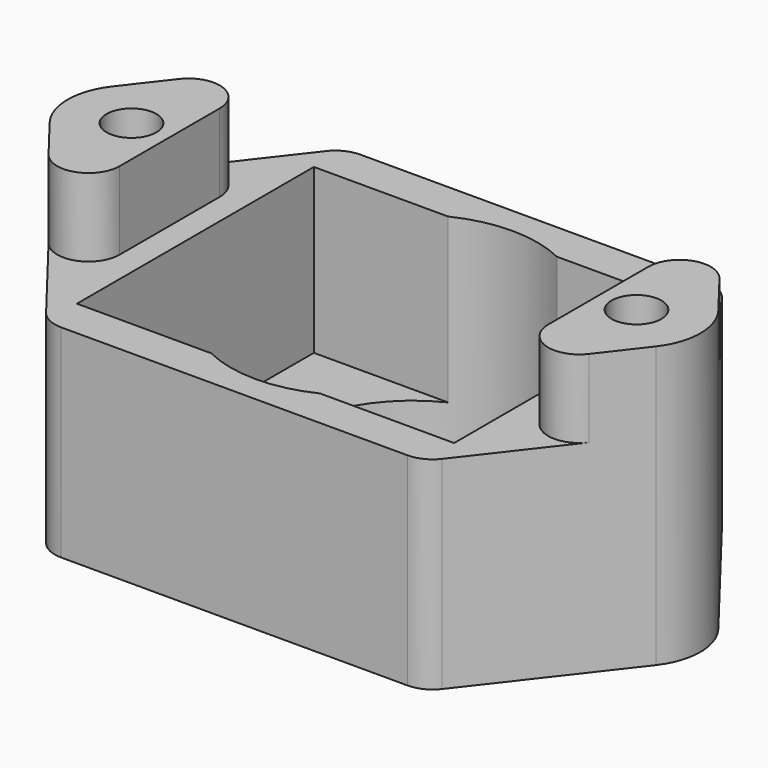
from build123d import *

# Parameters (mm, degrees)
SKETCH_R        = 1.6
PAD_DEPTH       = 2.5
SKETCH001_R     = 1.6
SKETCH001_W     = 24.2
SKETCH001_H     = 19
PAD001_DEPTH    = 15.5
SKETCH002_W     = 27.5
SKETCH002_H     = 25
POCKET_DEPTH    = 5
POCKET001_DEPTH = 18.001
FILLET_R        = 2


with BuildPart() as part:
    # Sketch → Pad (new body)
    with BuildSketch(Plane.XY):
        with BuildLine():
            Line((-12.1, 12), (12.1, 12))
            Line((12.1, 12), (19.442827, 2.508799))
            ThreePointArc((19.442837, -2.508786), (20.3, 8e-06), (19.442827, 2.508799))
            Line((19.442837, -2.508786), (12.1, -12))
            Line((12.1, -12), (-12.1, -12))
            Line((-12.1, -12), (-19.442827, -2.508799))
            ThreePointArc((-19.442827, 2.508799), (-20.3, 0), (-19.442827, -2.508799))
            Line((-12.1, 12), (-19.442827, 2.508799))
        make_face()
        with Locations((-16.2, 0)):
            Circle(SKETCH_R, mode=Mode.SUBTRACT)
        with Locations((16.2, 0)):
            Circle(SKETCH_R, mode=Mode.SUBTRACT)
    extrude(amount=PAD_DEPTH)

    # Sketch001 (on Face12 of Pad) → Pad001 (join)
    with BuildSketch(Plane.XY.offset(2.5)):
        with BuildLine():
            Line((-12.1, 12), (-19.442827, 2.508799))
            ThreePointArc((-19.442827, 2.508799), (-20.3, 0), (-19.442827, -2.508799))
            Line((-12.1, -12), (-19.442827, -2.508799))
            Line((12.1, -12), (-12.1, -12))
            Line((19.442837, -2.508786), (12.1, -12))
            ThreePointArc((19.442837, -2.508786), (20.3, 8e-06), (19.442827, 2.508799))
            Line((12.1, 12), (19.442827, 2.508799))
            Line((-12.1, 12), (12.1, 12))
        make_face()
        with Locations((-16.2, 0)):
            Circle(SKETCH001_R, mode=Mode.SUBTRACT)
        with Locations((16.2, 0)):
            Circle(SKETCH001_R, mode=Mode.SUBTRACT)
        Rectangle(SKETCH001_W, SKETCH001_H, mode=Mode.SUBTRACT)
    extrude(amount=PAD001_DEPTH)

    # Sketch002 (on Face15 of Pad001) → Pocket (cut)
    with BuildSketch(Plane.XY.offset(18)):
        Rectangle(SKETCH002_W, SKETCH002_H)
    extrude(amount=-POCKET_DEPTH, mode=Mode.SUBTRACT)

    # Sketch003 (on Face4 of Pocket) → Pocket001 (cut, through all)
    with BuildSketch(Plane(origin=(0, 0, 0), x_dir=(1, 0, 0), z_dir=(0, 0, -1))):
        with BuildLine():
            ThreePointArc((8, 2.3), (0, 10.3), (-8, 2.3))
            Line((-8, 2.3), (-8, -2.3))
            ThreePointArc((-8, -2.3), (0, -10.3), (8, -2.3))
            Line((8, -2.3), (8, 2.3))
        make_face()
    extrude(amount=-POCKET001_DEPTH, mode=Mode.SUBTRACT)

    # Fillet
    fillet_edges = [part.edges().sort_by_distance(p)[0] for p in [
        (-12.1, 12, 7.75),
        (12.1, 12, 7.75),
        (12.1, -12, 7.75),
        (-12.1, -12, 7.75),
        (-13.75, -9.867241, 15.5),
        (13.75, -9.867241, 15.5),
        (13.75, 9.867241, 15.5),
        (-13.75, 9.867241, 15.5),
    ]]
    fillet(fillet_edges, radius=FILLET_R)


solid = part.part
